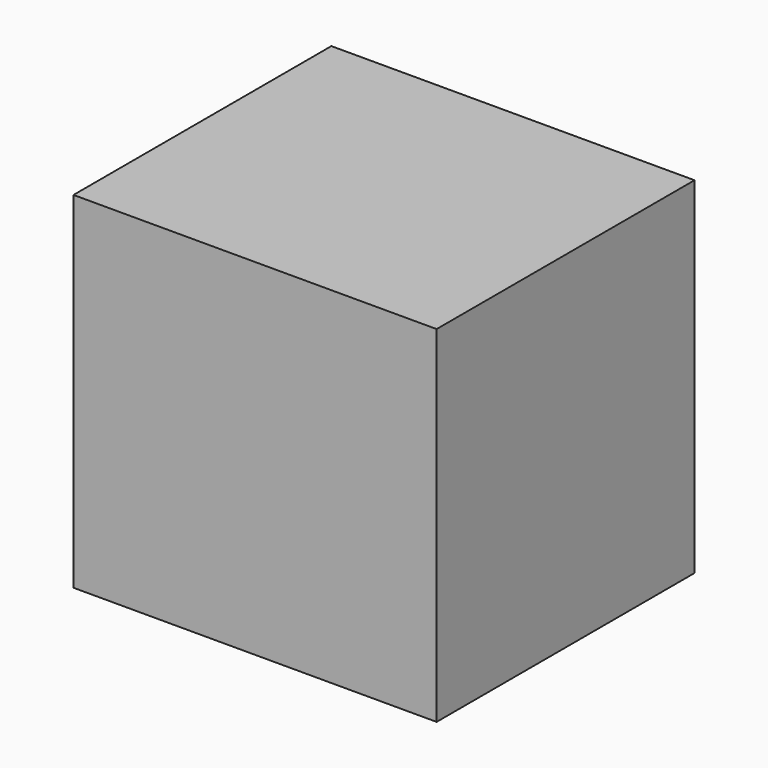
from build123d import *

# Parameters (mm, degrees)
F0_W     = 53.339999
F0_H     = 47.349947
F1_DEPTH = 50.8
F3_DEPTH = 2.54


with BuildPart() as f1:
    # F0 (on Top) → F1 (new body)
    with BuildSketch(Plane.XY):
        with Locations((1.283582, -1.283584)):
            Rectangle(F0_W, F0_H)
    extrude(amount=-F1_DEPTH)


with BuildPart() as f3:
    # F2 (on face) → F3 (new body)
    with BuildSketch(Plane(origin=(-25.386417, 0, 0), x_dir=(0, -1, 0), z_dir=(-1, 0, 0))):
        Polygon((-10.553902, -9.997003), (-10.553902, -42.514436), (0, -42.514436), (2.146098, -42.514436), (14.846098, -42.514436), (14.846098, -9.997003), align=None)
    extrude(amount=F3_DEPTH)


solid = Compound([f1.part, f3.part])
